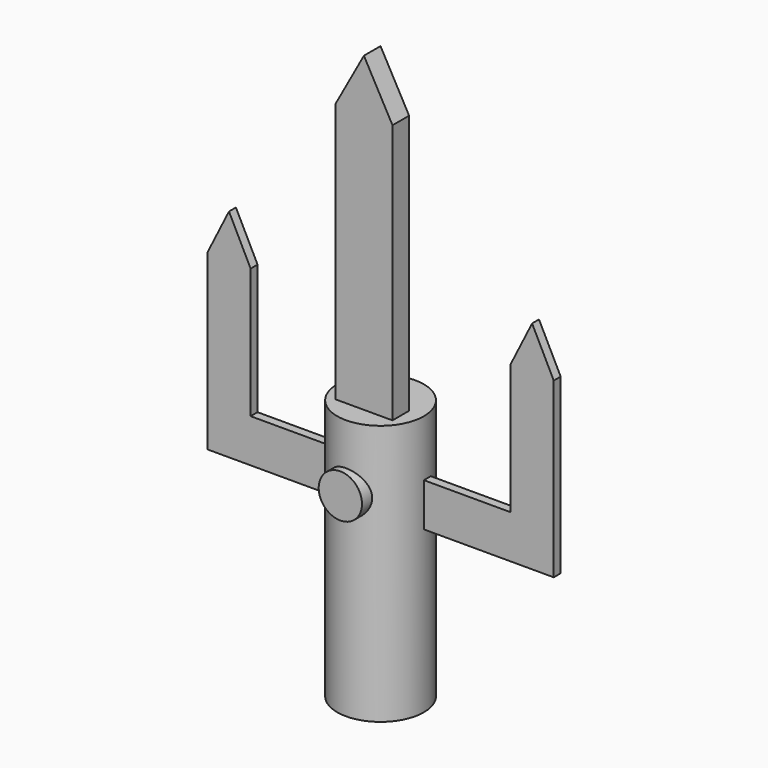
from build123d import *

# Parameters (mm, degrees)
F0_R     = 12.7
F1_DEPTH = 76.454
F2_R     = 6.35
F3_DEPTH = 14.732
F5_DEPTH = 2.54
F7_DEPTH = 3.556
F8_DEPTH = 6.096


with BuildPart() as f1:
    # F0 (on Top) → F1 (new body)
    with BuildSketch(Plane.XY):
        Circle(F0_R)
    extrude(amount=-F1_DEPTH)

    # F2 (on Front) → F3 (join)
    with BuildSketch(Plane.XZ):
        with Locations((0, -18.721409)):
            Circle(F2_R)
    extrude(amount=F3_DEPTH)

    # F6 (on Front) → F7 (join)
    with BuildSketch(Plane.XZ):
        Polygon((-8.382, 0), (0, 0), (8.382, 0), (8.382, 76.2), (0, 76.2), (-8.382, 76.2), align=None)
        Polygon((0, 91.44), (-8.382, 76.2), (0, 76.2), align=None)
        Polygon((0, 76.2), (8.382, 76.2), (0, 91.44), align=None)
    extrude(amount=F7_DEPTH)

    # F6 (on Front) → F8 (join)
    with BuildSketch(Plane.XZ):
        Polygon((-8.382, 0), (0, 0), (8.382, 0), (8.382, 76.2), (0, 76.2), (-8.382, 76.2), align=None)
        Polygon((0, 91.44), (-8.382, 76.2), (0, 76.2), align=None)
        Polygon((0, 76.2), (8.382, 76.2), (0, 91.44), align=None)
    extrude(amount=F8_DEPTH)


with BuildPart() as f5:
    # F4 (on Front) → F5 (new body)
    with BuildSketch(Plane.XZ):
        Polygon((-50.8, -29.21), (-12.7, -29.21), (-12.7, -16.51), (-38.1, -16.51), (-38.1, 21.59), (-44.45, 21.59), (-50.8, 21.59), align=None)
        Polygon((12.7, -16.51), (12.7, -29.209968), (50.8, -29.209968), (50.8, 21.59), (44.45, 21.59), (38.1, 21.59), (38.1, -16.51), align=None)
        Polygon((-44.45, 34.29), (-50.8, 21.59), (-44.45, 21.59), align=None)
        Polygon((44.45, 21.59), (50.8, 21.59), (44.45, 34.29), align=None)
        Polygon((-44.45, 21.59), (-38.1, 21.59), (-44.45, 34.29), align=None)
        Polygon((44.45, 34.29), (38.1, 21.59), (44.45, 21.59), align=None)
    extrude(amount=-F5_DEPTH)


solid = Compound([f1.part, f5.part])
